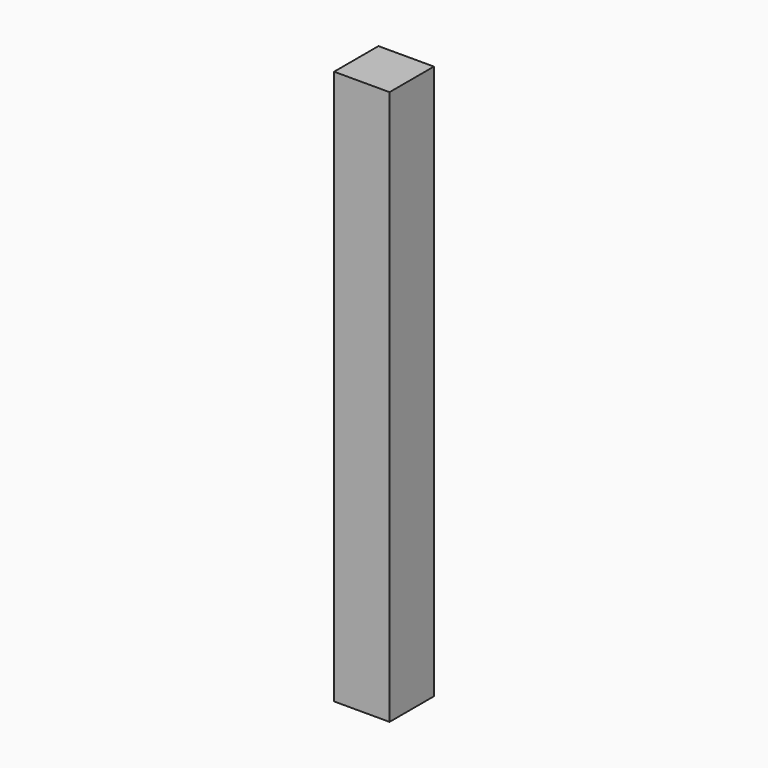
from build123d import *

# Parameters (mm, degrees)
F0_W      = 25.4
F0_H      = 254
F1_DEPTH  = 25.4
F1_FACE_W = 25.4
F1_FACE_H = 25.4
F2_DEPTH  = 203.2


with BuildPart() as f1:
    # F0 (on Front) → F1 (new body)
    with BuildSketch(Plane.XZ):
        with Locations((12.7, 127)):
            Rectangle(F0_W, F0_H)
    extrude(amount=-F1_DEPTH)

    # F1_face (on face) → F2 (join)
    with BuildSketch(Plane(origin=(12.7, 12.7, 254), x_dir=(1, 0, 0), z_dir=(0, 0, 1))):
        Rectangle(F1_FACE_W, F1_FACE_H)
    extrude(amount=-F2_DEPTH)


solid = f1.part
